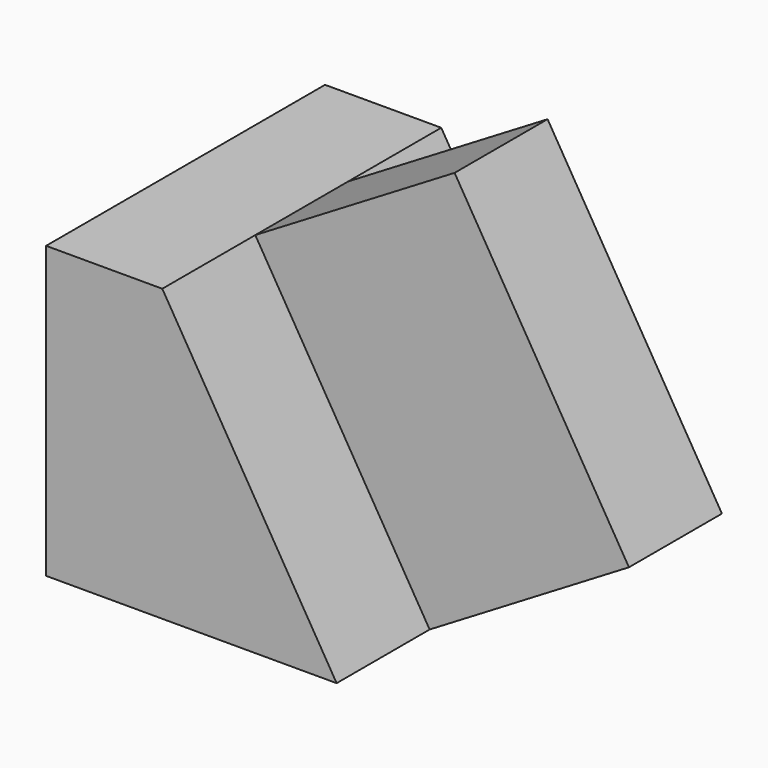
from build123d import *

# Parameters (mm, degrees)
F1_DEPTH = 76.2
F2_W     = 25.4
F2_H     = 74.0530890645
F3_DEPTH = 50.8


with BuildPart() as f1:
    # F0 (on Front) → F1 (new body)
    with BuildSketch(Plane.XZ):
        Polygon((-32.8333097622, 31.4650478065), (-32.8333097622, -32.0349521935), (30.6666902378, -32.0349521935), (-7.4333097622, 31.4650478065), align=None)
    extrude(amount=-F1_DEPTH)

    # F2 (on face) → F3 (join)
    with BuildSketch(Plane(origin=(8.4159697954, 0, 5.0495818772), x_dir=(0, 1, 0), z_dir=(0.8574929257, 0, 0.5144957554))):
        with Locations((38.1, -6.2210823096)):
            Rectangle(F2_W, F2_H)
    extrude(amount=F3_DEPTH)


solid = f1.part
